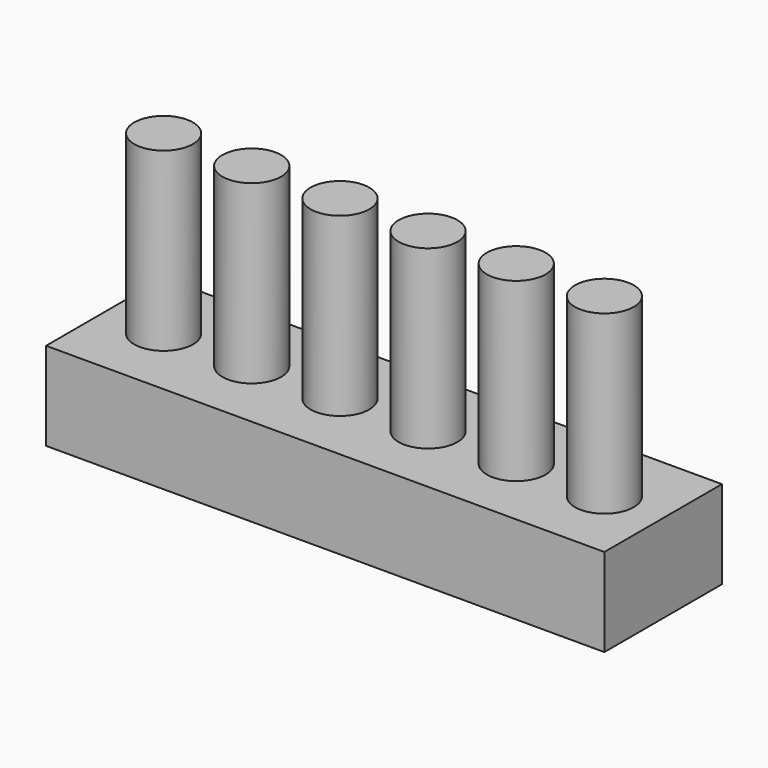
from build123d import *

# Parameters (mm, degrees)
F0_W     = 95
F0_H     = 50
F1_DEPTH = 30
F2_R     = 10
F3_DEPTH = 10
F4_R     = 10
F5_DEPTH = 70
F6_R     = 10
F7_DEPTH = 70
F8_R     = 10
F9_DEPTH = 70


with BuildPart() as f1:
    # F0 (on Top) → F1 (new body)
    with BuildSketch(Plane.XY):
        with Locations((47.5, 0)):
            Rectangle(F0_W, F0_H)
    extrude(amount=F1_DEPTH)

    # F2 (on face) → F3 (cut)
    with BuildSketch(Plane.XY.offset(30)):
        with Locations((75, 0)):
            Circle(F2_R)
        with Locations((15, 0)):
            Circle(F2_R)
        with Locations((45, 0)):
            Circle(F2_R)
    extrude(amount=-F3_DEPTH, mode=Mode.SUBTRACT)

    # F4 (on face) → F5 (join)
    with BuildSketch(Plane.XY.offset(20)):
        with Locations((75, 0)):
            Circle(F4_R)
    extrude(amount=F5_DEPTH)

    # F6 (on face) → F7 (join)
    with BuildSketch(Plane.XY.offset(20)):
        with Locations((45, 0)):
            Circle(F6_R)
    extrude(amount=F7_DEPTH)

    # F8 (on face) → F9 (join)
    with BuildSketch(Plane.XY.offset(20)):
        with Locations((15, 0)):
            Circle(F8_R)
    extrude(amount=F9_DEPTH)

    # F10: F1 across face


with BuildPart() as f1_1:
    add(f1.part)
    add(f1.part.mirror(Plane(origin=(0, 0, 15), x_dir=(0, -1, 0), z_dir=(-1, 0, 0))))


with BuildPart() as f11_1:
    # F11: copy of F1
    add(f1_1.part)


solid = Compound([f1_1.part, f11_1.part])
